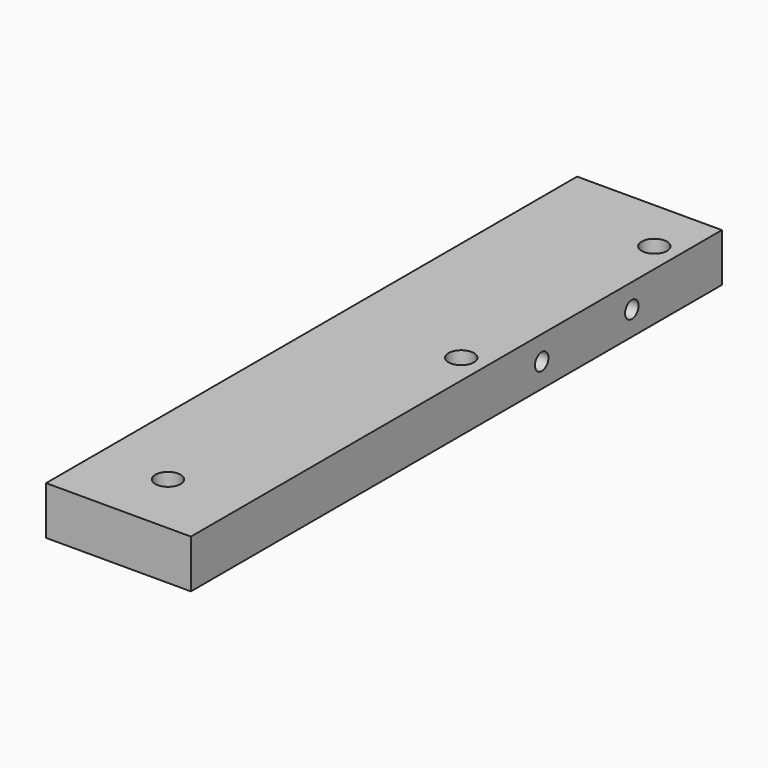
from build123d import *

# Parameters (mm, degrees)
F0_W     = 36
F0_H     = 165
F1_DEPTH = 12
F3_D     = 6.3
F3_DEPTH = 40
F3_TIP   = 1.8927109499
F5_D     = 4.2
F5_DEPTH = 4
F5_TIP   = 1.2618073


with BuildPart() as f1:
    # F0 (on Top) → F1 (new body)
    with BuildSketch(Plane.XY):
        Rectangle(F0_W, F0_H)
    extrude(amount=F1_DEPTH)

    # F3
    with Locations(Plane.XY.offset(12)):
        with Locations((-0.5, -66.5), (12, 9), (12, 69)):
            Hole(F3_D / 2, depth=F3_DEPTH)
            with Locations((0, 0, -(F3_DEPTH + F3_TIP / 2))):  # 118° drill point
                Cone(0, F3_D / 2, F3_TIP, mode=Mode.SUBTRACT)

    # F5
    with Locations(Plane.YZ.offset(18)):
        with Locations((26.5, 6), (54.5, 6)):
            Hole(F5_D / 2, depth=F5_DEPTH)
            with Locations((0, 0, -(F5_DEPTH + F5_TIP / 2))):  # 118° drill point
                Cone(0, F5_D / 2, F5_TIP, mode=Mode.SUBTRACT)


solid = f1.part
